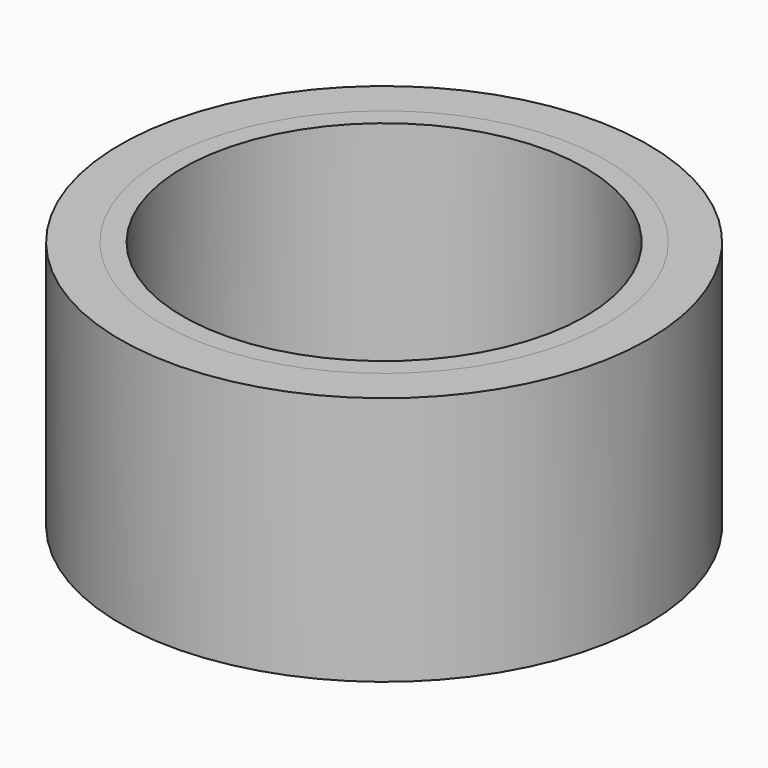
from build123d import *

# Parameters (mm, degrees)
F0_R     = 23.01875
F1_DEPTH = 28.575
F0_R_2   = 30.20441
F0_R_3   = 25.4
F2_DEPTH = 28.575
F3_DEPTH = 28.575
F4_DEPTH = 76.2


with BuildPart() as f1:
    # F0 (on Top) → F1 (new body)
    with BuildSketch(Plane.XY):
        Circle(F0_R)
    extrude(amount=F1_DEPTH)

    # F4 (cut): a face of the model
    f4_faces = [f1.faces().sort_by_distance(p)[0] for p in [
        (0, 0, 28.575),
    ]]
    extrude(f4_faces, amount=-F4_DEPTH, mode=Mode.SUBTRACT)


with BuildPart() as f2:
    # F0 (on Top) → F2 (new body)
    with BuildSketch(Plane.XY):
        Circle(F0_R_2)
        Circle(F0_R_3, mode=Mode.SUBTRACT)
    extrude(amount=F2_DEPTH)


with BuildPart() as f3:
    # F0 (on Top) → F3 (new body)
    with BuildSketch(Plane.XY):
        Circle(F0_R_3)
        Circle(F0_R, mode=Mode.SUBTRACT)
    extrude(amount=F3_DEPTH)


solid = Compound([f2.part, f3.part])
